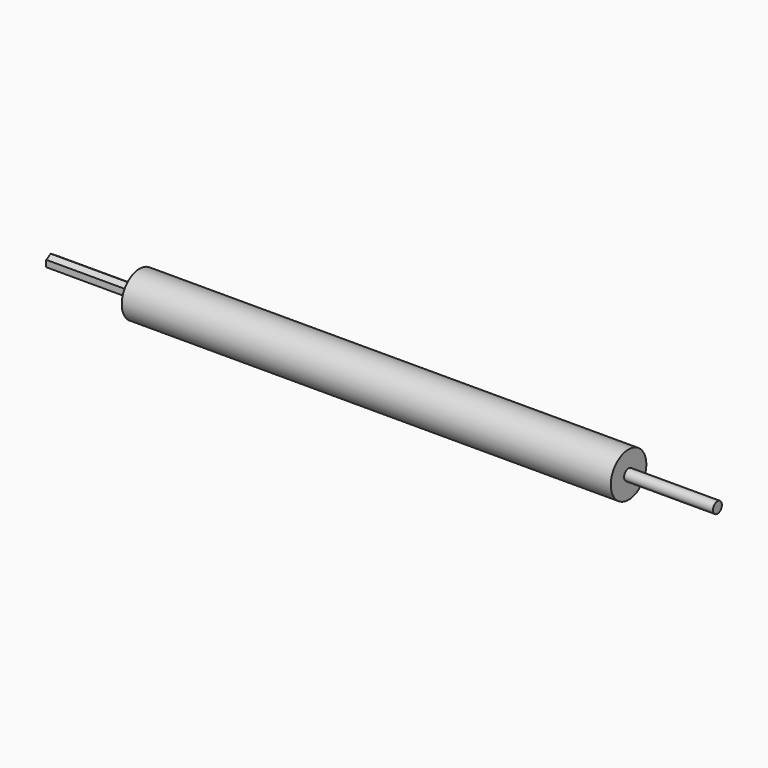
from build123d import *

# Parameters (mm, degrees)
F0_R     = 25.4
F1_DEPTH = 558.8
F2_R     = 6.35
F3_DEPTH = 101.6
F5_DEPTH = 101.6


with BuildPart() as f1:
    # F0 (on Right) → F1 (new body)
    with BuildSketch(Plane.YZ):
        Circle(F0_R)
    extrude(amount=F1_DEPTH)

    # F2 (on face) → F3 (join)
    with BuildSketch(Plane.YZ.offset(558.8)):
        Circle(F2_R)
    extrude(amount=F3_DEPTH)

    # F4 (on face) → F5 (join)
    with BuildSketch(Plane(origin=(0, 0, 0), x_dir=(0, -1, 0), z_dir=(-1, 0, 0))):
        Polygon((0.205691, -7.329463), (6.450346, -3.486598), (6.244656, 3.842865), (-0.205691, 7.329463), (-6.450346, 3.486598), (-6.244656, -3.842865), align=None)
    extrude(amount=F5_DEPTH)


solid = f1.part
